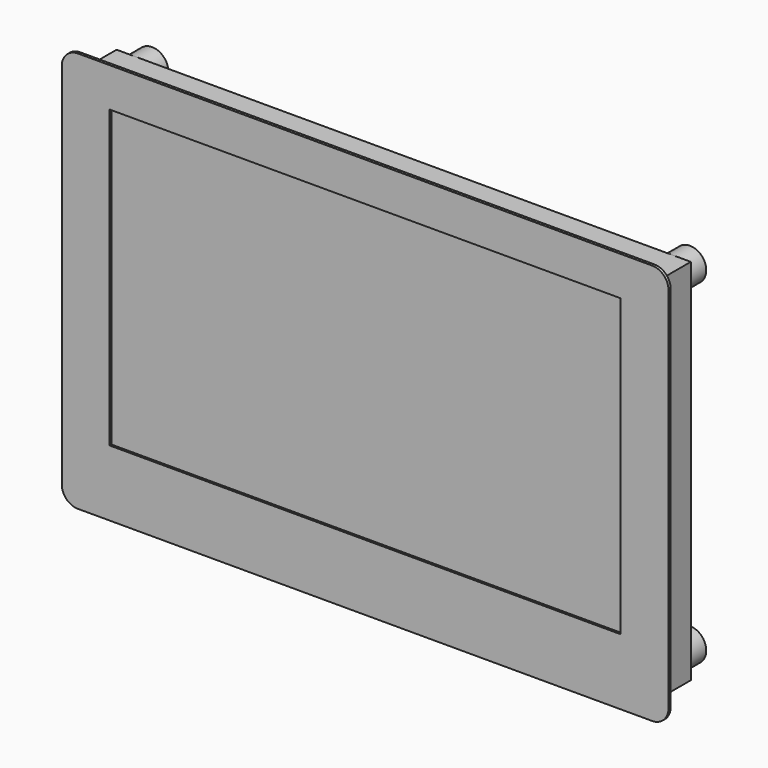
from build123d import *

# Parameters (mm, degrees)
SKETCH_W     = 106
SKETCH_H     = 68
PAD_DEPTH    = 8.4
SKETCH001_R  = 3
PAD001_DEPTH = 4
SKETCH002_W  = 2.65
SKETCH002_H  = 22
PAD002_DEPTH = 5.9
SKETCH003_W  = 94.3
SKETCH003_H  = 54.6
PAD003_DEPTH = 0.1
SKETCH005_W  = 94.3
SKETCH005_H  = 54.6
PAD004_DEPTH = 0.5


with BuildPart() as lcd:
    # Sketch → Pad (new body)
    with BuildSketch(Plane.XZ):
        with Locations((53, 34)):
            Rectangle(SKETCH_W, SKETCH_H)
    extrude(amount=PAD_DEPTH)

    # Sketch001 (on Face5 of Pad) → Pad001 (join)
    with BuildSketch(Plane(origin=(0, 0, 0), x_dir=(1, 0, 0), z_dir=(0, 1, 0))):
        with Locations((3.35, -64.9)):
            Circle(SKETCH001_R)
        with Locations((102.65, -64.9)):
            Circle(SKETCH001_R)
        with Locations((102.65, -3.1)):
            Circle(SKETCH001_R)
        with Locations((3.35, -3.1)):
            Circle(SKETCH001_R)
        with Locations((80.38, -9.46)):
            Circle(SKETCH001_R)
        with Locations((80.38, -58.5)):
            Circle(SKETCH001_R)
        with Locations((22.38, -9.46)):
            Circle(SKETCH001_R)
        with Locations((22.38, -58.5)):
            Circle(SKETCH001_R)
    extrude(amount=PAD001_DEPTH)

    # Sketch002 → Pad002 (join)
    with BuildSketch(Plane.XZ):
        with Locations((3.125, 34)):
            Rectangle(SKETCH002_W, SKETCH002_H)
    extrude(amount=-PAD002_DEPTH)

    # Sketch003 (on Face5 of Pad002) → Pad003 (join)
    with BuildSketch(Plane.XZ.offset(8.4)):
        with Locations((53, 36.5)):
            Rectangle(SKETCH003_W, SKETCH003_H)
    extrude(amount=PAD003_DEPTH)


with BuildPart() as body:
    # Sketch005 (on Face1 of CopyBinder) → Pad004 (new body)
    with BuildSketch(Plane.XZ.offset(8.4)):
        with BuildLine():
            Line((-3, 68), (-3, 0))
            ThreePointArc((0, -3), (-2.12132, -2.12132), (-3, 0))
            Line((0, -3), (106, -3))
            ThreePointArc((109, 0), (108.12132, -2.12132), (106, -3))
            Line((109, 0), (109, 68))
            ThreePointArc((106, 71), (108.12132, 70.12132), (109, 68))
            Line((106, 71), (0, 71))
            ThreePointArc((-3, 68), (-2.12132, 70.12132), (0, 71))
        make_face()
        with Locations((53, 36.5)):
            Rectangle(SKETCH005_W, SKETCH005_H, mode=Mode.SUBTRACT)
    extrude(amount=PAD004_DEPTH)


solid = Compound([lcd.part, body.part])
